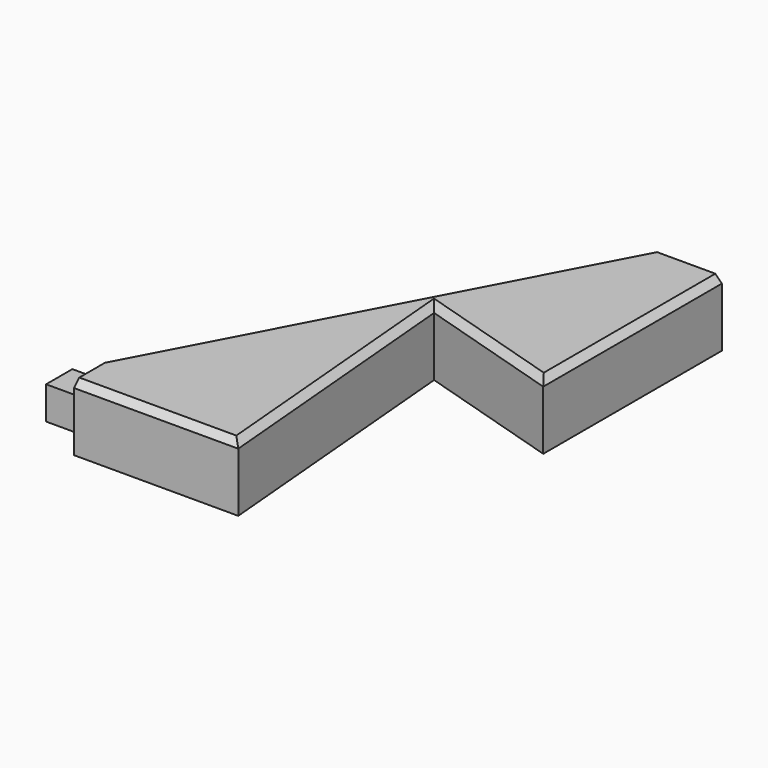
from build123d import *

# Parameters (mm, degrees)
F1_DEPTH = 10
F2_SIZE  = 1
F3_W     = 2.5
F3_H     = 5
F4_DEPTH = 5
F5_W     = 2.75
F5_H     = 5.5
F6_DEPTH = 5


with BuildPart() as f1:
    # F0 (on Top) → F1 (new body)
    with BuildSketch(Plane.XY):
        Polygon((32.334468, 61.115628), (0, 0), (0, -8), (25, -8), (21.339459, 33.840177), (43.334468, 27.115628), (43.334468, 61.115628), align=None)
    extrude(amount=F1_DEPTH)

    # F2
    f2_edges = [f1.edges().sort_by_distance(p)[0] for p in [
        (16.167234, 30.557814, 10),
        (12.5, -8, 10),
        (23.169729, 12.920089, 10),
        (32.336963, 30.477903, 10),
        (43.334468, 44.115628, 10),
    ]]
    chamfer(f2_edges, length=F2_SIZE)

    # F3 (on face) → F4 (join)
    with BuildSketch(Plane(origin=(0, 0, 0), x_dir=(0, -1, 0), z_dir=(-1, 0, 0))):
        with Locations((5.819171, 5)):
            Rectangle(F3_W, F3_H)
        with Locations((3.319171, 5)):
            Rectangle(F3_W, F3_H)
    extrude(amount=F4_DEPTH)

    # F5 (on face) → F6 (cut)
    with BuildSketch(Plane(origin=(0, 61.115628, 0), x_dir=(-1, 0, 0), z_dir=(0, 1, 0))):
        with Locations((-36.525135, 5)):
            Rectangle(F5_W, F5_H)
        with Locations((-39.275135, 5)):
            Rectangle(F5_W, F5_H)
    extrude(amount=-F6_DEPTH, mode=Mode.SUBTRACT)


solid = f1.part
